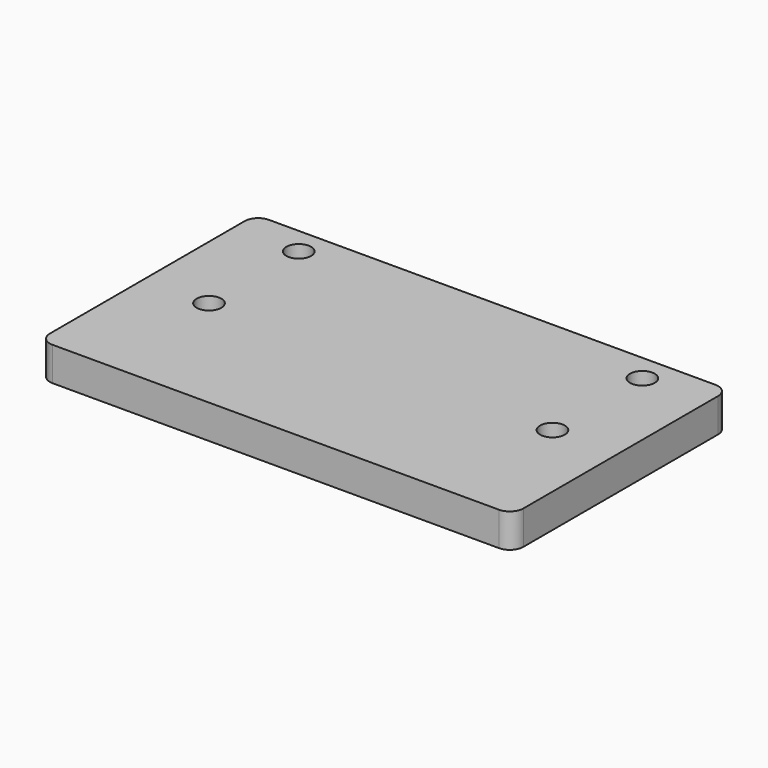
from build123d import *

# Parameters (mm, degrees)
F0_R     = 9.15
F1_DEPTH = 25
F2_R     = 10


with BuildPart() as f1:
    # F0 (on Top) → F1 (new body)
    with BuildSketch(Plane.XY):
        Polygon((175, 200), (0, 200), (0, 0), (350, 0), (350, 200), align=None)
        with Locations((48.060222, 97.000022)):
            Circle(F0_R, mode=Mode.SUBTRACT)
        with Locations((301.939778, 97.000022)):
            Circle(F0_R, mode=Mode.SUBTRACT)
        with Locations((48, 180)):
            Circle(F0_R, mode=Mode.SUBTRACT)
        with Locations((302, 180)):
            Circle(F0_R, mode=Mode.SUBTRACT)
    extrude(amount=F1_DEPTH)

    # F2
    f2_edges = [f1.edges().sort_by_distance(p)[0] for p in [
        (350, 0, 12.5),
        (350, 200, 12.5),
        (0, 0, 12.5),
        (0, 200, 12.5),
    ]]
    fillet(f2_edges, radius=F2_R)


solid = f1.part
